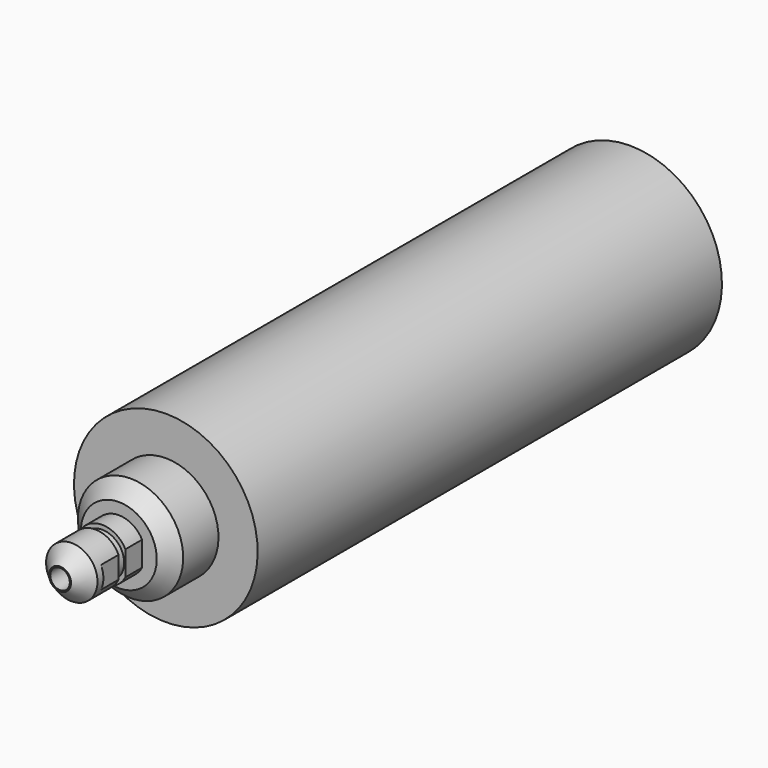
from build123d import *

# Parameters (mm, degrees)
F3_D     = 8
F3_DEPTH = 15
F3_TIP   = 2.4034424761
F4_W     = 3
F4_H     = 21
F5_DEPTH = 12.5


with BuildPart() as f1:
    # F0 (on Right) → F1 (revolve)
    with BuildSketch(Plane.YZ):
        Polygon((-61.5567314936, 4.5), (-61.5567314936, 0), (229.4432685064, 0), (229.4432685064, 37.5), (-7.5567314936, 37.5), (-7.5567314936, 21.5), (-25.5567314936, 21.5), (-31.5567314936, 15.5), (-31.5567314936, 10.75), (-40.0567314936, 10.75), (-40.0567314936, 9), (-43.5567314936, 9), (-43.5567314936, 10.5), (-55.5567314936, 10.5), align=None)
    revolve(axis=Axis((0, 83.9432685064, 0), (0, 1, 0)))

    # F3
    with Locations(Plane.XZ.offset(61.5567314936)):
        with Locations((0, 0)):
            Hole(F3_D / 2, depth=F3_DEPTH)
            with Locations((0, 0, -(F3_DEPTH + F3_TIP / 2))):  # 118° drill point
                Cone(0, F3_D / 2, F3_TIP, mode=Mode.SUBTRACT)

    # F4 (on Top) → F5 (cut, symmetric)
    with BuildSketch(Plane.XY):
        with Locations((11, -42.0567314936)):
            Rectangle(F4_W, F4_H)
        with Locations((-11, -42.0567314936)):
            Rectangle(F4_W, F4_H)
    extrude(amount=F5_DEPTH, both=True, mode=Mode.SUBTRACT)


solid = f1.part
